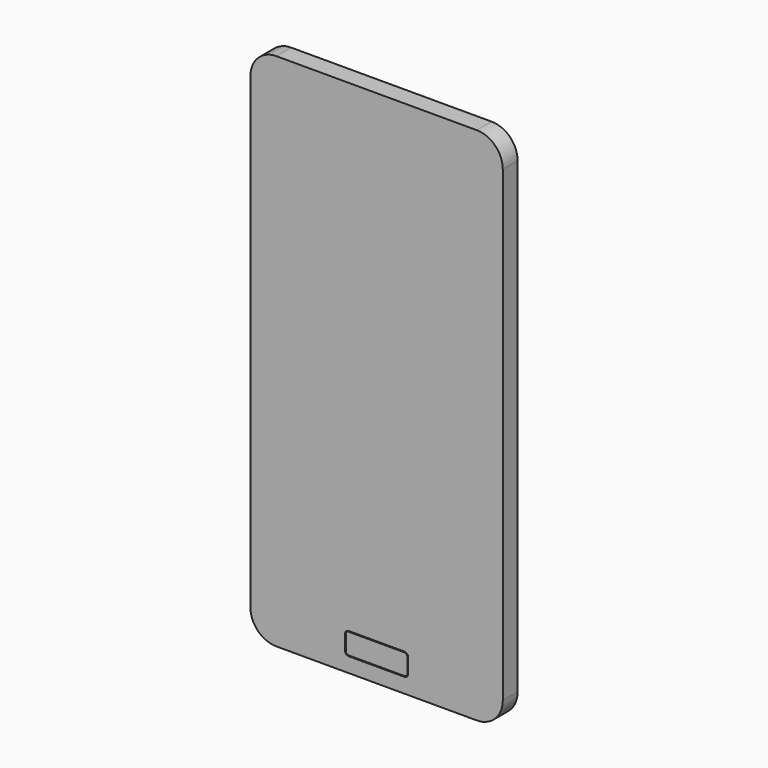
from build123d import *

# Parameters (mm, degrees)
F0_W     = 68
F0_H     = 140
F1_DEPTH = 2.5
F2_R     = 7
F4_DEPTH = 2


with BuildPart() as f1:
    # F0 (on Front) → F1 (new body, symmetric)
    with BuildSketch(Plane.XZ):
        Rectangle(F0_W, F0_H)
    extrude(amount=F1_DEPTH, both=True)

    # F2
    f2_edges = [f1.edges().sort_by_distance(p)[0] for p in [
        (34, 0, 70),
        (-34, 0, 70),
        (34, 0, -70),
        (-34, 0, -70),
    ]]
    fillet(f2_edges, radius=F2_R)

    # F3 (on face) → F4 (cut)
    with BuildSketch(Plane.XZ.offset(2.5)):
        with BuildLine():
            Line((7.5, -60), (-7.5, -60))
            ThreePointArc((-7.5, -60), (-8.207107, -60.292893), (-8.5, -61))
            Line((-8.5, -61), (-8.5, -65))
            ThreePointArc((-8.5, -65), (-8.207107, -65.707107), (-7.5, -66))
            Line((-7.5, -66), (7.5, -66))
            ThreePointArc((7.5, -66), (8.207107, -65.707107), (8.5, -65))
            Line((8.5, -65), (8.5, -61))
            ThreePointArc((8.5, -61), (8.207107, -60.292893), (7.5, -60))
        make_face()
        with BuildLine():
            ThreePointArc((-8.3, -61), (-8.065685, -60.434315), (-7.5, -60.2))
            Line((-7.5, -60.2), (7.5, -60.2))
            ThreePointArc((7.5, -60.2), (8.065685, -60.434315), (8.3, -61))
            Line((8.3, -61), (8.3, -65))
            ThreePointArc((8.3, -65), (8.065685, -65.565685), (7.5, -65.8))
            Line((7.5, -65.8), (-7.5, -65.8))
            ThreePointArc((-7.5, -65.8), (-8.065685, -65.565685), (-8.3, -65))
            Line((-8.3, -65), (-8.3, -61))
        make_face(mode=Mode.SUBTRACT)
    extrude(amount=-F4_DEPTH, mode=Mode.SUBTRACT)


solid = f1.part
